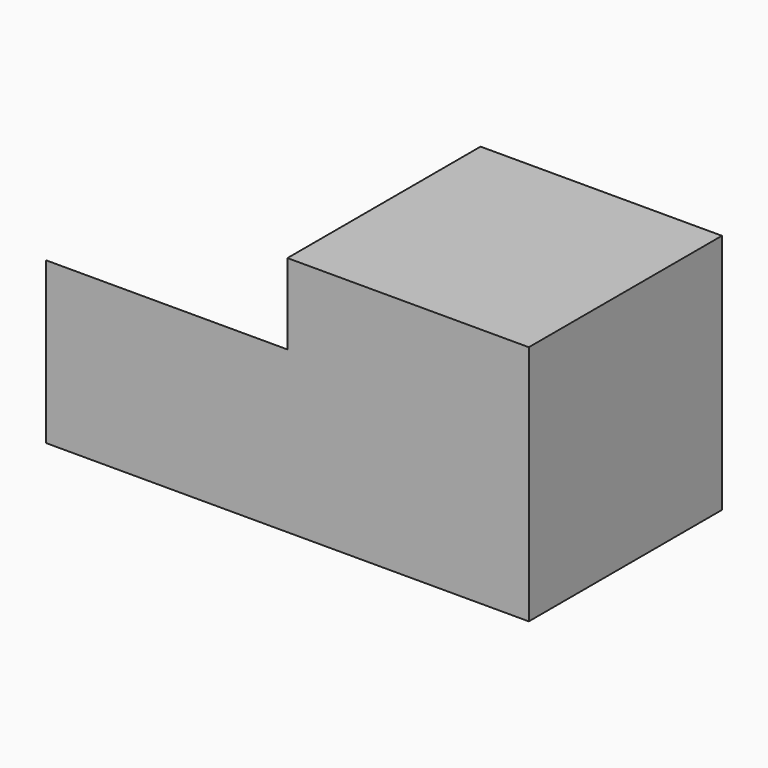
from build123d import *

# Parameters (mm, degrees)
F0_W     = 15
F0_H     = 15
F1_DEPTH = 15
F3_DEPTH = 15


with BuildPart() as f1:
    # F0 (on Front) → F1 (new body)
    with BuildSketch(Plane.XZ):
        with Locations((16.293217, -10.408946)):
            Rectangle(F0_W, F0_H)
    extrude(amount=F1_DEPTH)

    # F2 (on face) → F3 (join)
    with BuildSketch(Plane(origin=(8.793217, 0, 0), x_dir=(0, -1, 0), z_dir=(-1, 0, 0))):
        Polygon((15, -7.908946), (5, -17.908946), (15, -17.908946), align=None)
    extrude(amount=F3_DEPTH)


solid = f1.part
